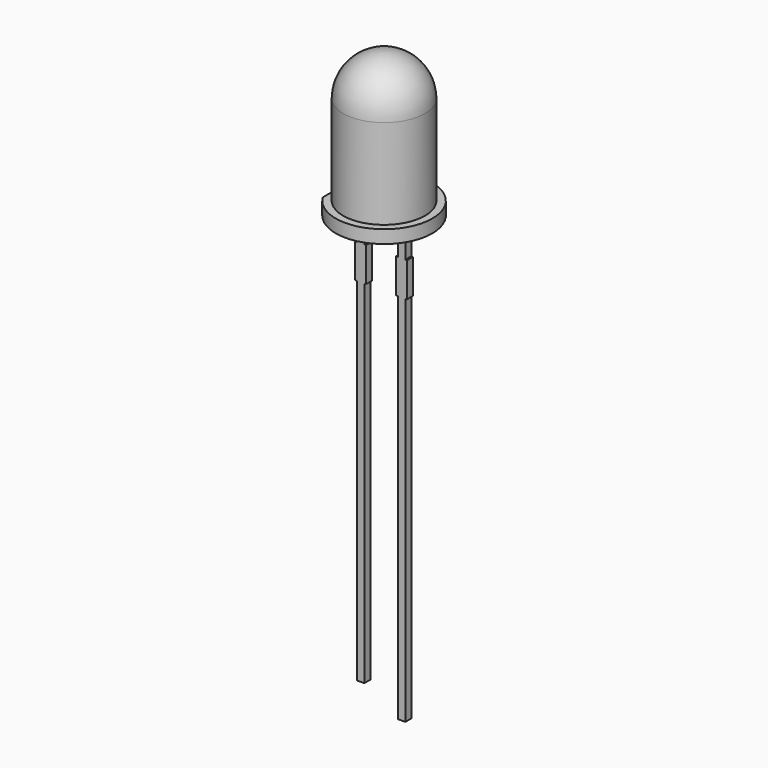
from build123d import *

# Parameters (mm, degrees)
F0_R          = 2.5
F1_DEPTH      = 8.8
F0_R_2        = 2.95
F2_DEPTH      = 0.8
F3_R          = 2.4999664281
F5_DEPTH      = 0.8
F4_W          = 0.46
F4_H          = 0.46
F6_DEPTH      = 25.4
F7_W          = 0.46
F7_H          = 2.1
F8_DEPTH      = 0.1
F8_DEPTH_BACK = 0.56
F10_DEPTH     = 1.27


with BuildPart() as f1:
    # F0 (on Top) → F1 (new body)
    with BuildSketch(Plane.XY):
        Circle(F0_R)
    extrude(amount=F1_DEPTH)

    # F0 (on Top) → F2 (join)
    with BuildSketch(Plane.XY):
        Circle(F0_R_2)
        Circle(F0_R, mode=Mode.SUBTRACT)
    extrude(amount=F2_DEPTH)

    # F3
    f3_edges = [f1.edges().sort_by_distance(p)[0] for p in [
        (-2.5, 0, 8.8),
    ]]
    fillet(f3_edges, radius=F3_R)

    # F4 (on face) → F5 (cut, through all)
    with BuildSketch(Plane(origin=(0, 0, 0), x_dir=(1, 0, 0), z_dir=(0, 0, -1))):
        with BuildLine():
            Line((-2.5, -1.5660459763), (-2.5, 0))
            Line((-2.5, 0), (-2.5, 1.5660459763))
            ThreePointArc((-2.5, 1.5660459763), (-2.95, 0), (-2.5, -1.5660459763))
        make_face()
    extrude(amount=-F5_DEPTH, mode=Mode.SUBTRACT)


with BuildPart() as f6:
    # F4 (on face) → F6 (new body)
    with BuildSketch(Plane(origin=(0, 0, 0), x_dir=(1, 0, 0), z_dir=(0, 0, -1))):
        with Locations((-1.252, 0)):
            Rectangle(F4_W, F4_H)
    extrude(amount=F6_DEPTH)

    # F7 (on face) → F8 (join, two sides)
    with BuildSketch(Plane(origin=(-1.482, 0, 0), x_dir=(0, -1, 0), z_dir=(-1, 0, 0))) as f8_sk:
        with Locations((0, -2.85)):
            Rectangle(F7_W, F7_H)
    extrude(amount=F8_DEPTH)
    extrude(f8_sk.sketch, amount=-F8_DEPTH_BACK)


with BuildPart() as f9_1:
    # F9: instance of F6
    add(f6.part.mirror(Plane.YZ))

    # F10 (add): a face of the model
    f10_faces = [f9_1.faces().sort_by_distance(p)[0] for p in [
        (1.252, 0, -25.4),
    ]]
    extrude(f10_faces, amount=F10_DEPTH)


solid = Compound([f1.part, f6.part, f9_1.part])
